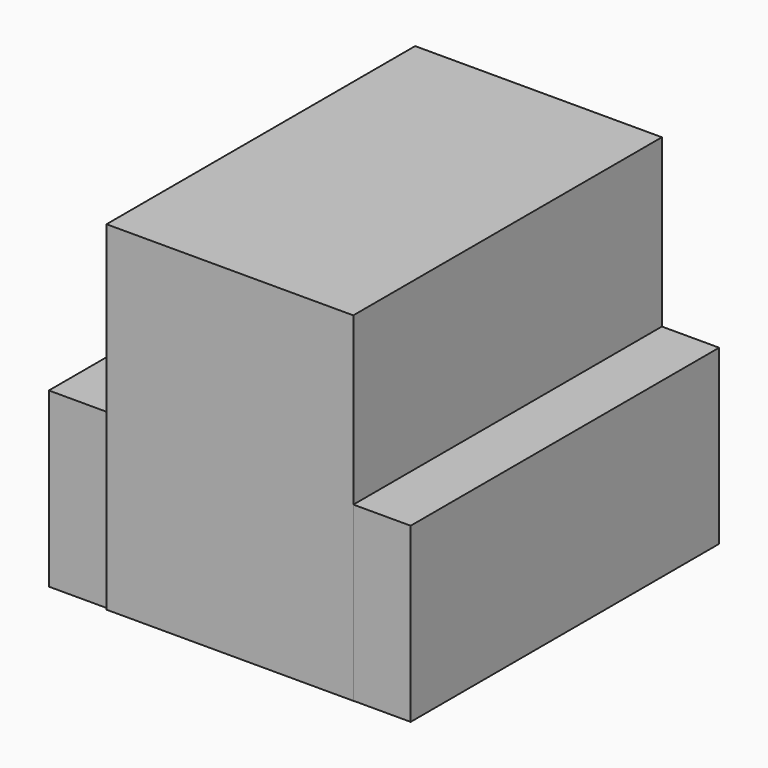
from build123d import *

# Parameters (mm, degrees)
F1_DEPTH = 95.8433821797
F0_W     = 16.1665417254
F0_H     = 108.9052408934
F2_DEPTH = 48.777140677
F3_T     = -2.54


with BuildPart() as f1:
    # F0 (on Top) → F1 (new body)
    with BuildSketch(Plane.XY):
        Polygon((37.7709232271, 57.3377944529), (-31.9253392518, 57.3377944529), (-31.9253392518, -50.960008055), (-31.9253392518, -51.6111589968), (37.7709232271, -51.6111589968), (37.7709232271, -51.5674464405), align=None)
    extrude(amount=F1_DEPTH)

    # F0 (on Top) → F2 (join)
    with BuildSketch(Plane.XY):
        Polygon((-31.9253392518, -50.960008055), (-31.9253392518, 57.3377944529), (-48.7250611186, 57.3377944529), (-48.7250611186, -12.884741649), (-48.7250611186, -50.960008055), align=None)
        with Locations((45.8541940898, 2.8851740062)):
            Rectangle(F0_W, F0_H)
    extrude(amount=F2_DEPTH)

    # F3
    f3_openings = [f1.faces().sort_by_distance(p)[0] for p in [
        (-48.725061, 3.188893, 24.38857),
    ]]
    offset(amount=F3_T, openings=f3_openings, kind=Kind.INTERSECTION)


solid = f1.part
